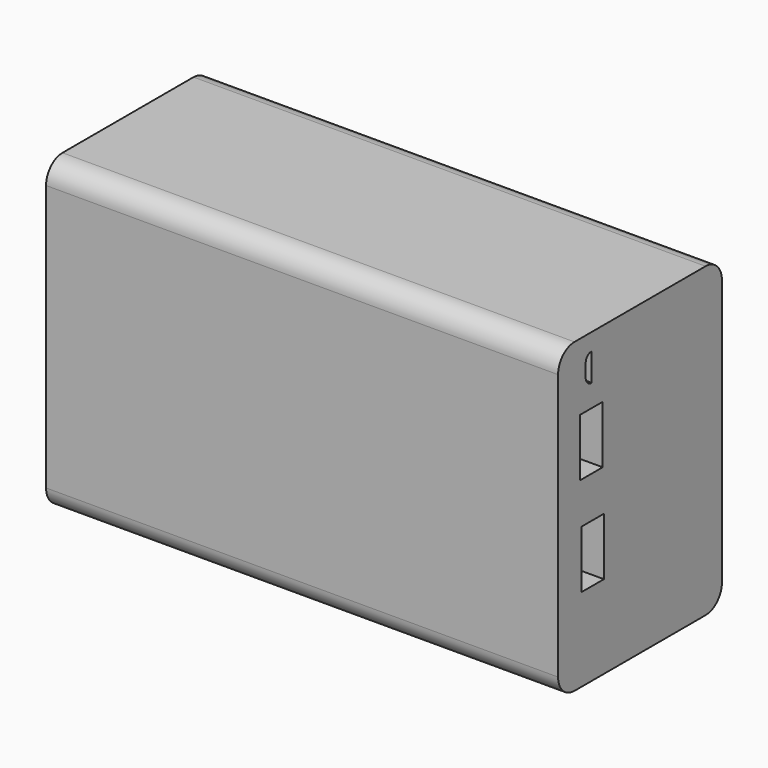
from build123d import *

# Parameters (mm, degrees)
F0_W      = 127
F0_H      = 76.2
F1_DEPTH  = 50.8
F2_R      = 5.08
F3_W      = 7
F3_H      = 14.3
F4_DEPTH  = 16.4
F5_W      = 7
F5_H      = 14.3
F6_DEPTH  = 16.4
F8_DEPTH  = 16.4
F9_W      = 1.841523
F9_H      = 37.853485
F10_DEPTH = 3
F11_R     = 5.920901
F12_DEPTH = 2


with BuildPart() as f1:
    # F0 (on Front) → F1 (new body)
    with BuildSketch(Plane.XZ):
        Rectangle(F0_W, F0_H)
    extrude(amount=-F1_DEPTH)

    # F2
    f2_edges = [f1.edges().sort_by_distance(p)[0] for p in [
        (0, 50.8, -38.1),
        (0, 0, -38.1),
        (0, 0, 38.1),
        (0, 50.8, 38.1),
    ]]
    fillet(f2_edges, radius=F2_R)

    # F3 (on face) → F4 (cut)
    with BuildSketch(Plane.YZ.offset(63.5)):
        with Locations((10.331045, 14.323671)):
            Rectangle(F3_W, F3_H)
    extrude(amount=-F4_DEPTH, mode=Mode.SUBTRACT)

    # F5 (on face) → F6 (cut)
    with BuildSketch(Plane.YZ.offset(63.5)):
        with Locations((10.71509, -10.272532)):
            Rectangle(F5_W, F5_H)
    extrude(amount=-F6_DEPTH, mode=Mode.SUBTRACT)

    # F7 (on face) → F8 (cut)
    with BuildSketch(Plane.YZ.offset(63.5)):
        with BuildLine():
            Line((10.417472, 33.898923), (10.367472, 33.898923))
            ThreePointArc((10.367472, 33.898923), (9.09468, 33.371715), (8.567472, 32.098923))
            Line((8.567472, 32.098923), (8.567472, 28.798923))
            ThreePointArc((8.567472, 28.798923), (9.09468, 27.526131), (10.367472, 26.998923))
            Line((10.367472, 26.998923), (10.417472, 26.998923))
            Line((10.417472, 26.998923), (10.417472, 33.898923))
        make_face()
    extrude(amount=-F8_DEPTH, mode=Mode.SUBTRACT)

    # F9 (on face) → F10 (cut)
    with BuildSketch(Plane(origin=(0, 50.8, 0), x_dir=(-1, 0, 0), z_dir=(0, 1, 0))):
        with Locations((-59.478882, 0.321649)):
            Rectangle(F9_W, F9_H)
    extrude(amount=-F10_DEPTH, mode=Mode.SUBTRACT)

    # F11 (on face) → F12 (join)
    with BuildSketch(Plane(origin=(0, 50.8, 0), x_dir=(-1, 0, 0), z_dir=(0, 1, 0))):
        with Locations((-47.834026, 22.763033)):
            Circle(F11_R)
    extrude(amount=F12_DEPTH)


solid = f1.part
